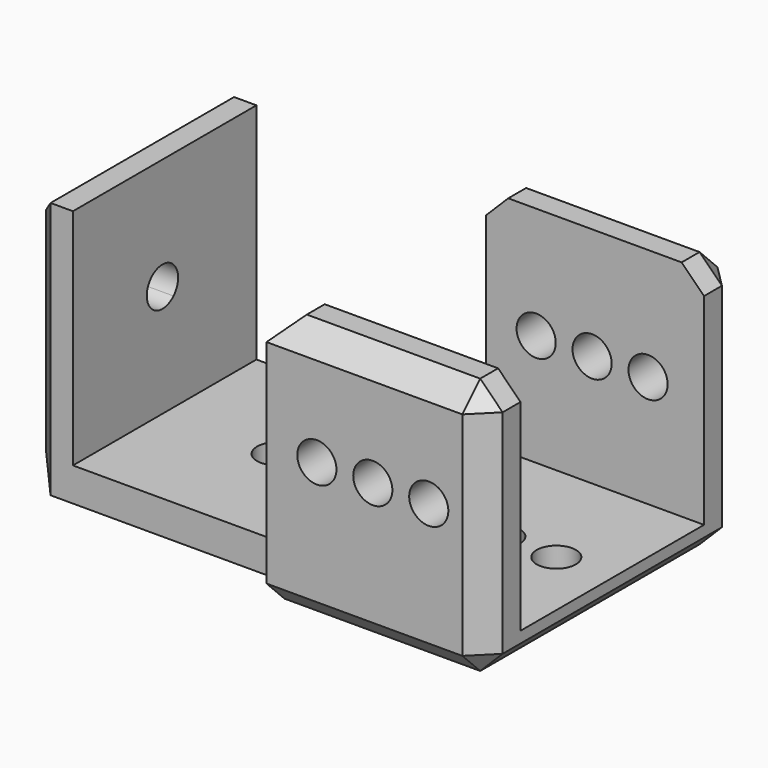
from build123d import *

# Parameters (mm, degrees)
F0_R     = 1.75
F1_DEPTH = 3
F0_W     = 4
F0_H     = 20.5
F0_W_2   = 19.5
F0_H_2   = 4
F2_DEPTH = 23
F3_R     = 1.75
F4_DEPTH = 28.501
F6_DEPTH = 25
F7_SIZE  = 2


with BuildPart() as f1:
    # F0 (on Top) → F1 (new body)
    with BuildSketch(Plane.XY):
        with BuildLine():
            Line((-34.3095597923, 23.5192315383), (-54.8095597923, 23.5192315383))
            Line((-54.8095597923, 23.5192315383), (-54.8095597923, 3.0192315383))
            Line((-54.8095597923, 3.0192315383), (-34.3095597923, 3.0192315383))
            Line((-34.3095597923, 3.0192315383), (-34.3095597923, 11.5921805552))
            ThreePointArc((-34.3095597923, 11.5921805552), (-35.8553848254, 11.8661100182), (-36.5595597923, 13.2692315383))
            ThreePointArc((-36.5595597923, 13.2692315383), (-35.8553848254, 14.6723530583), (-34.3095597923, 14.9462825214))
            Line((-34.3095597923, 14.9462825214), (-34.3095597923, 23.5192315383))
        make_face()
        with Locations((-44.8095597923, 13.2692315383)):
            Circle(F0_R, mode=Mode.SUBTRACT)
        with BuildLine():
            ThreePointArc((-41.5595597923, 13.2692315383), (-39.8095597923, 15.0192315383), (-38.0595597923, 13.2692315383))
            ThreePointArc((-38.0595597923, 13.2692315383), (-39.8095597923, 11.5192315383), (-41.5595597923, 13.2692315383))
        make_face(mode=Mode.SUBTRACT)
        with BuildLine():
            Line((-14.8095597923, 23.5192315383), (-34.3095597923, 23.5192315383))
            Line((-34.3095597923, 23.5192315383), (-34.3095597923, 14.9462825214))
            ThreePointArc((-34.3095597923, 14.9462825214), (-33.4064382722, 14.3150565715), (-33.0595597923, 13.2692315383))
            Line((-33.0595597923, 13.2692315383), (-31.5595597923, 13.2692315383))
            ThreePointArc((-31.5595597923, 13.2692315383), (-29.8095597923, 15.0192315383), (-28.0595597923, 13.2692315383))
            Line((-28.0595597923, 13.2692315383), (-26.5595597923, 13.2692315383))
            ThreePointArc((-26.5595597923, 13.2692315383), (-24.8095597923, 15.0192315383), (-23.0595597923, 13.2692315383))
            Line((-23.0595597923, 13.2692315383), (-21.5595597923, 13.2692315383))
            ThreePointArc((-21.5595597923, 13.2692315383), (-19.8095597923, 15.0192315383), (-18.0595597923, 13.2692315383))
            Line((-18.0595597923, 13.2692315383), (-14.8095597923, 13.2692315383))
            Line((-14.8095597923, 13.2692315383), (-14.8095597923, 23.5192315383))
        make_face()
        with BuildLine():
            Line((-34.3095597923, 11.5921805552), (-34.3095597923, 3.0192315383))
            Line((-34.3095597923, 3.0192315383), (-14.8095597923, 3.0192315383))
            Line((-14.8095597923, 3.0192315383), (-14.8095597923, 13.2692315383))
            Line((-14.8095597923, 13.2692315383), (-18.0595597923, 13.2692315383))
            ThreePointArc((-18.0595597923, 13.2692315383), (-19.8095597923, 11.5192315383), (-21.5595597923, 13.2692315383))
            Line((-21.5595597923, 13.2692315383), (-23.0595597923, 13.2692315383))
            ThreePointArc((-23.0595597923, 13.2692315383), (-24.8095597923, 11.5192315383), (-26.5595597923, 13.2692315383))
            Line((-26.5595597923, 13.2692315383), (-28.0595597923, 13.2692315383))
            ThreePointArc((-28.0595597923, 13.2692315383), (-29.8095597923, 11.5192315383), (-31.5595597923, 13.2692315383))
            Line((-31.5595597923, 13.2692315383), (-33.0595597923, 13.2692315383))
            ThreePointArc((-33.0595597923, 13.2692315383), (-33.4064382722, 12.2234065051), (-34.3095597923, 11.5921805552))
        make_face()
    extrude(amount=F1_DEPTH)

    # F0 (on Top) → F2 (join)
    with BuildSketch(Plane.XY):
        with Locations((-56.8095597923, 13.2692315383)):
            Rectangle(F0_W, F0_H)
        with Locations((-24.5595597923, 1.0192315383)):
            Rectangle(F0_W_2, F0_H_2)
        with Locations((-24.5595597923, 25.5192315383)):
            Rectangle(F0_W_2, F0_H_2)
    extrude(amount=F2_DEPTH)

    # F3 (on face) → F4 (cut, through all)
    with BuildSketch(Plane(origin=(0, 27.5192315383, 0), x_dir=(-1, 0, 0), z_dir=(0, 1, 0))):
        with Locations((19.8095597923, 13)):
            Circle(F3_R)
        with Locations((24.8095597923, 13)):
            Circle(F3_R)
        with Locations((29.8095597923, 13)):
            Circle(F3_R)
        with Locations((39.8095597923, 13)):
            Circle(F3_R)
        with Locations((44.8095597923, 13)):
            Circle(F3_R)
        with Locations((49.8095597923, 13)):
            Circle(F3_R)
    extrude(amount=-F4_DEPTH, mode=Mode.SUBTRACT)

    # F5 (on face) → F6 (cut)
    with BuildSketch(Plane(origin=(-58.8095597923, 0, 0), x_dir=(0, -1, 0), z_dir=(-1, 0, 0))):
        with BuildLine():
            Line((-13.0192315383, 13), (-11.7817946712, 14.2374368671))
            ThreePointArc((-11.7817946712, 14.2374368671), (-13.0192315383, 14.75), (-14.2566684054, 14.2374368671))
            Line((-14.2566684054, 14.2374368671), (-13.0192315383, 13))
        make_face()
        with BuildLine():
            ThreePointArc((-14.2566684054, 11.7625631329), (-13.0192315383, 11.25), (-11.7817946712, 11.7625631329))
            Line((-11.7817946712, 11.7625631329), (-13.0192315383, 13))
            Line((-13.0192315383, 13), (-14.2566684054, 11.7625631329))
        make_face()
        with BuildLine():
            ThreePointArc((-11.2692315383, 13), (-11.4024423564, 13.6696960066), (-11.7817946712, 14.2374368671))
            Line((-11.7817946712, 14.2374368671), (-13.0192315383, 13))
            Line((-13.0192315383, 13), (-11.7817946712, 11.7625631329))
            ThreePointArc((-11.7817946712, 11.7625631329), (-11.4024423564, 12.3303039934), (-11.2692315383, 13))
        make_face()
        with BuildLine():
            Line((-13.0192315383, 13), (-14.2566684054, 14.2374368671))
            ThreePointArc((-14.2566684054, 14.2374368671), (-14.7692315383, 13), (-14.2566684054, 11.7625631329))
            Line((-14.2566684054, 11.7625631329), (-13.0192315383, 13))
        make_face()
    extrude(amount=-F6_DEPTH, mode=Mode.SUBTRACT)

    # F7
    f7_edges = [f1.edges().sort_by_distance(p)[0] for p in [
        (-24.55956, -0.980768, 23),
        (-14.80956, -0.980768, 11.5),
        (-24.55956, -0.980768, 0),
        (-14.80956, 13.269232, 0),
        (-14.80956, 27.519232, 11.5),
        (-14.80956, 1.019232, 23),
        (-14.80956, 25.519232, 23),
        (-24.55956, 27.519232, 23),
        (-34.30956, 25.519232, 23),
        (-34.30956, 1.019232, 23),
        (-24.55956, 27.519232, 0),
        (-58.80956, 23.519232, 11.5),
        (-58.80956, 3.019232, 11.5),
        (-58.80956, 13.269232, 23),
        (-58.80956, 13.269232, 0),
    ]]
    chamfer(f7_edges, length=F7_SIZE)


solid = f1.part
